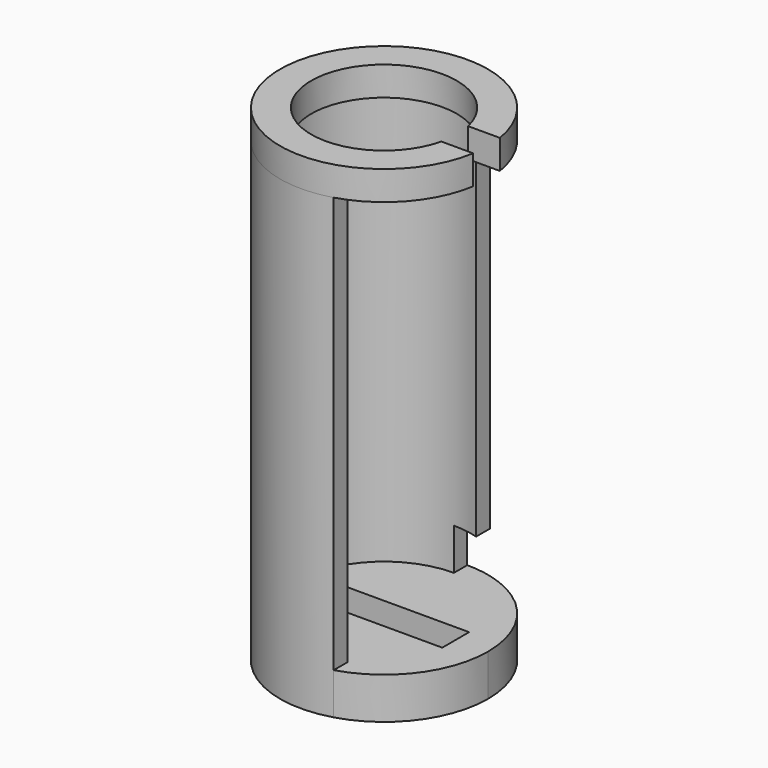
from build123d import *

# Parameters (mm, degrees)
F0_W     = 6.8263569847
F0_H     = 1.6141139204
F1_DEPTH = 2
F2_DEPTH = 22
F4_DEPTH = 1.4
F5_W     = 1.2100687839
F5_H     = 1.0110005358
F6_DEPTH = 2


with BuildPart() as f1:
    # F0 (on Top) → F1 (new body)
    with BuildSketch(Plane.XY):
        with BuildLine():
            ThreePointArc((1.4161020408, -4.7952742372), (4.0050287267, -2.9932832973), (5, 0))
            ThreePointArc((5, 0), (3.9401994822, 3.0781208619), (1.2100687839, 4.8513640905))
            Line((1.2100687839, 4.8513640905), (1.2100687839, 4.0219067043))
            ThreePointArc((1.2100687839, 4.0219067043), (-4.1985994161, -0.1084571011), (1.4161020408, -3.9540681595))
            Line((1.4161020408, -3.9540681595), (1.4161020408, -4.7952742372))
        make_face()
        with Locations((0.043381704, -0.0145365484)):
            Rectangle(F0_W, F0_H, mode=Mode.SUBTRACT)
    extrude(amount=F1_DEPTH)

    # F0 (on Top) → F2 (join)
    with BuildSketch(Plane.XY):
        with BuildLine():
            Line((1.2100687839, 4.0219067043), (1.2100687839, 4.8513640905))
            ThreePointArc((1.2100687839, 4.8513640905), (-4.9988599757, -0.1067658356), (1.4161020408, -4.7952742372))
            Line((1.4161020408, -4.7952742372), (1.4161020408, -3.9540681595))
            ThreePointArc((1.4161020408, -3.9540681595), (-4.1985994161, -0.1084571011), (1.2100687839, 4.0219067043))
        make_face()
    extrude(amount=F2_DEPTH)

    # F3 (on face) → F4 (join)
    with BuildSketch(Plane.XY.offset(22)):
        with BuildLine():
            ThreePointArc((3.4046116017, -0.8115539672), (-3.4999864728, 0.0097308767), (3.409071597, 0.792610148))
            Line((3.409071597, 0.792610148), (4.9367772031, 0.792610148))
            ThreePointArc((4.9367772031, 0.792610148), (-4.9999907913, 0.0095961861), (4.933698426, -0.8115539672))
            Line((4.933698426, -0.8115539672), (3.4046116017, -0.8115539672))
        make_face()
    extrude(amount=F4_DEPTH)

    # F5 (on face) → F6 (cut)
    with BuildSketch(Plane.XY.offset(2)):
        with Locations((0.6050343919, 4.5274069722)):
            Rectangle(F5_W, F5_H)
    extrude(amount=F6_DEPTH, mode=Mode.SUBTRACT)


solid = f1.part
